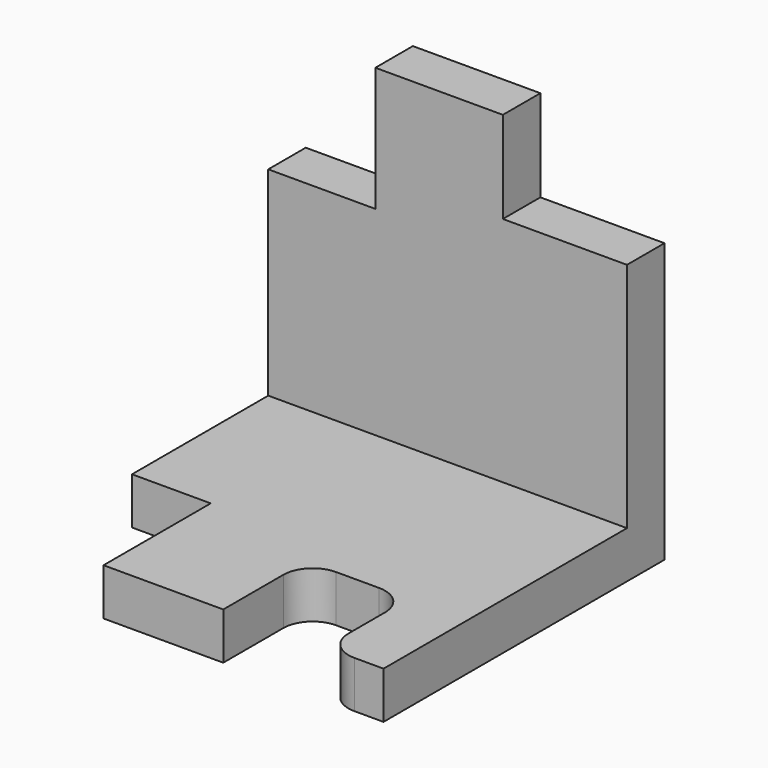
from build123d import *

# Parameters (mm, degrees)
F1_DEPTH = 8
F3_DEPTH = 8


with BuildPart() as f1:
    # F0 (on Top) → F1 (new body)
    with BuildSketch(Plane.XY):
        with BuildLine():
            Line((61.209101, 0), (0, 0))
            Line((0, 0), (0, -29.060779))
            Line((0, -29.060779), (13.432942, -29.060779))
            Line((13.432942, -29.060779), (13.432942, -51.924739))
            Line((13.432942, -51.924739), (33.864211, -51.924739))
            Line((33.864211, -51.924739), (33.864211, -39.103882))
            ThreePointArc((33.864211, -39.103882), (35.328677, -35.568348), (38.864211, -34.103882))
            Line((38.864211, -34.103882), (46.222939, -34.103882))
            ThreePointArc((46.222939, -34.103882), (49.758473, -35.568348), (51.222939, -39.103882))
            Line((51.222939, -39.103882), (51.222939, -46.924739))
            ThreePointArc((51.222939, -46.924739), (52.687405, -50.460273), (56.222939, -51.924739))
            Line((56.222939, -51.924739), (61.209101, -51.924739))
            Line((61.209101, -51.924739), (61.209101, 0))
        make_face()
    extrude(amount=F1_DEPTH)

    # F2 (on Front) → F3 (join)
    with BuildSketch(Plane.XZ):
        Polygon((18.276608, 41.993212), (0, 41.993212), (0, 0), (61.209101, 0), (61.209101, 47.55351), (40.031917, 47.55351), (40.031917, 63.196853), (18.276608, 63.196853), align=None)
    extrude(amount=-F3_DEPTH)


solid = f1.part
